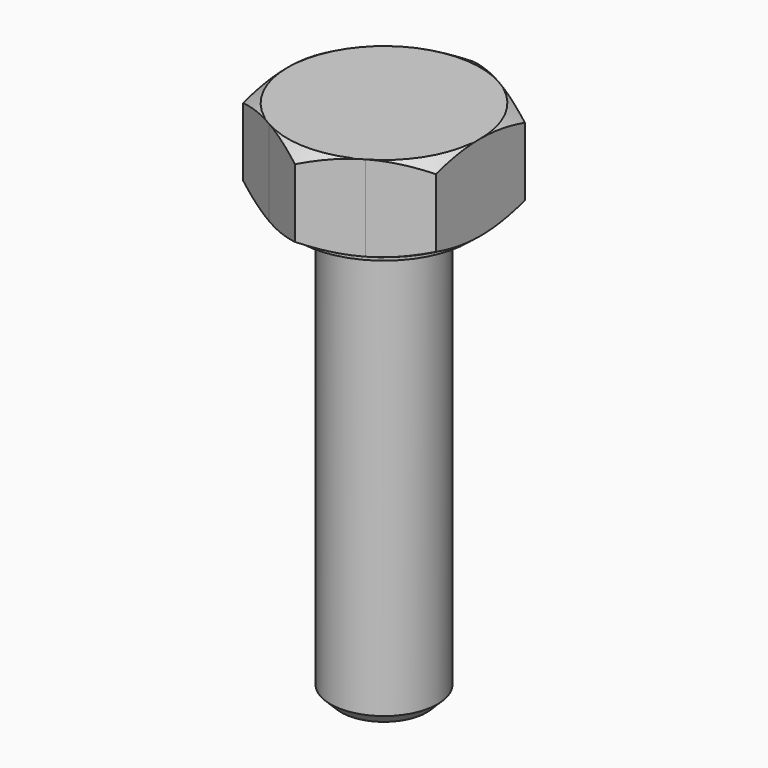
from build123d import *

# Parameters (mm, degrees)
F3_DEPTH = 4
F6_SIZE  = 0.5


with BuildPart() as f1:
    # F0 (on Front) → F1 (revolve)
    with BuildSketch(Plane.XZ):
        Polygon((0, 20.3999999762), (0, 0), (2.5, 0), (2.5, 20), (4, 20), (4, 20.3999999762), align=None)
    revolve(axis=Axis((0, 0, 10.1999999881), (0, 0, 1)))

    # F2 (on face) → F3 (join)
    with BuildSketch(Plane.XY.offset(20.3999999762)):
        with BuildLine():
            ThreePointArc((2.249999971, -3.8971143338), (3.8971143086, -2.2500000145), (4.5, 0))
            ThreePointArc((4.5, 0), (3.8971143176, 2.249999999), (2.250000002, 3.8971143159))
            ThreePointArc((2.250000002, 3.8971143159), (-2.9e-08, 4.5), (-2.2500000522, 3.8971142869))
            ThreePointArc((-2.2500000522, 3.8971142869), (-3.8971143321, 2.2499999739), (-4.5, 0))
            ThreePointArc((-4.5, 0), (-3.8971143245, -2.2499999871), (-2.2500000257, -3.8971143022))
            ThreePointArc((-2.2500000257, -3.8971143022), (-3.16e-08, -4.5), (2.249999971, -3.8971143338))
        make_face()
        with BuildLine():
            Line((4.5, -2.5980762114), (4.5, 0))
            ThreePointArc((4.5, 0), (3.8971143086, -2.2500000145), (2.249999971, -3.8971143338))
            Line((2.249999971, -3.8971143338), (4.5, -2.5980762114))
        make_face()
        with BuildLine():
            ThreePointArc((2.250000002, 3.8971143159), (3.8971143176, 2.249999999), (4.5, 0))
            Line((4.5, 0), (4.5, 2.5980762114))
            Line((4.5, 2.5980762114), (2.250000002, 3.8971143159))
        make_face()
        with BuildLine():
            ThreePointArc((-2.2500000522, 3.8971142869), (-2.9e-08, 4.5), (2.250000002, 3.8971143159))
            Line((2.250000002, 3.8971143159), (0, 5.1961524227))
            Line((0, 5.1961524227), (-2.2500000522, 3.8971142869))
        make_face()
        with BuildLine():
            Line((0, -5.1961524227), (2.249999971, -3.8971143338))
            ThreePointArc((2.249999971, -3.8971143338), (-3.16e-08, -4.5), (-2.2500000257, -3.8971143022))
            Line((-2.2500000257, -3.8971143022), (0, -5.1961524227))
        make_face()
        with BuildLine():
            ThreePointArc((-4.5, 0), (-3.8971143321, 2.2499999739), (-2.2500000522, 3.8971142869))
            Line((-2.2500000522, 3.8971142869), (-4.5, 2.5980762114))
            Line((-4.5, 2.5980762114), (-4.5, 0))
        make_face()
        with BuildLine():
            Line((-4.5, -2.5980762114), (-2.2500000257, -3.8971143022))
            ThreePointArc((-2.2500000257, -3.8971143022), (-3.8971143245, -2.2499999871), (-4.5, 0))
            Line((-4.5, 0), (-4.5, -2.5980762114))
        make_face()
    extrude(amount=F3_DEPTH)

    # F4 (on Front) → F5 (revolve, cut)
    with BuildSketch(Plane.XZ):
        Polygon((-7.9641016151, 22.3999999762), (-4.5, 24.3999999762), (-9.8750129299, 24.3999999762), (-9.8750129299, 23.5032651381), align=None)
        Polygon((-4.5, 20.3999999762), (-7.9641016151, 22.3999999762), (-9.8750129299, 21.2967348142), (-9.8750129299, 20.3999999762), align=None)
        Polygon((-9.8750129299, 21.2967348142), (-7.9641016151, 22.3999999762), (-9.8750129299, 23.5032651381), align=None)
    revolve(axis=Axis((0, 0, 22.3999999762), (0, 0, -1)), mode=Mode.SUBTRACT)

    # F6
    f6_edges = [f1.edges().sort_by_distance(p)[0] for p in [
        (-2.5, 0, 0),
    ]]
    chamfer(f6_edges, length=F6_SIZE)


solid = f1.part
